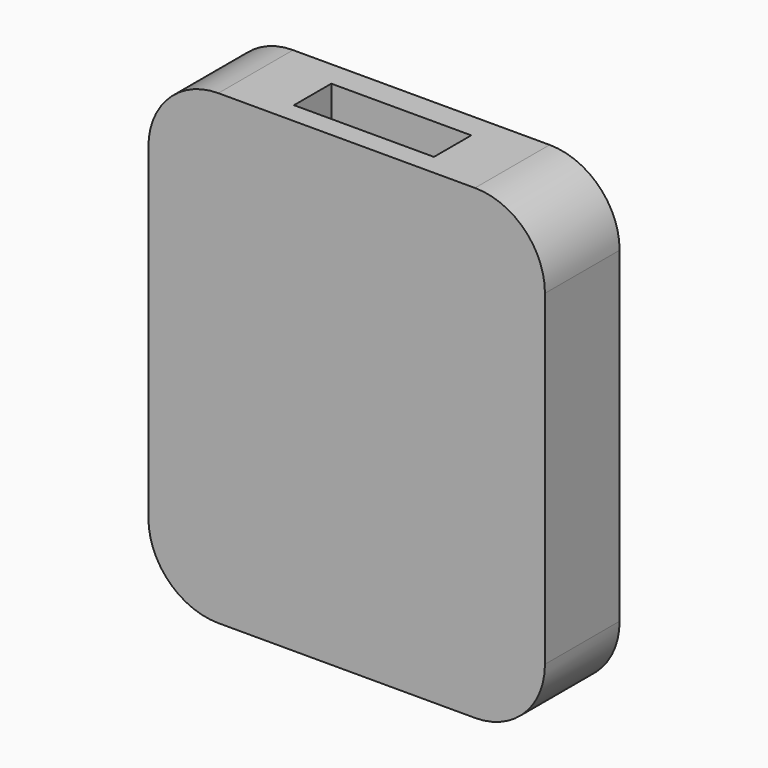
from build123d import *

# Parameters (mm, degrees)
F0_W     = 85
F0_H     = 100
F1_DEPTH = 20
F2_W     = 30
F2_H     = 10
F3_DEPTH = 20.4
F4_R     = 15


with BuildPart() as f1:
    # F0 (on Front) → F1 (new body)
    with BuildSketch(Plane.XZ):
        with Locations((4.112373, -14.619432)):
            Rectangle(F0_W, F0_H)
    extrude(amount=F1_DEPTH)

    # F2 (on face) → F3 (cut)
    with BuildSketch(Plane.XY.offset(35.380568)):
        with Locations((4.212248, -10.496597)):
            Rectangle(F2_W, F2_H)
    extrude(amount=-F3_DEPTH, mode=Mode.SUBTRACT)

    # F4
    f4_edges = [f1.edges().sort_by_distance(p)[0] for p in [
        (46.612373, -10, 35.380568),
        (-38.387627, -10, 35.380568),
        (46.612373, -10, -64.619432),
        (-38.387627, -10, -64.619432),
    ]]
    fillet(f4_edges, radius=F4_R)


solid = f1.part
